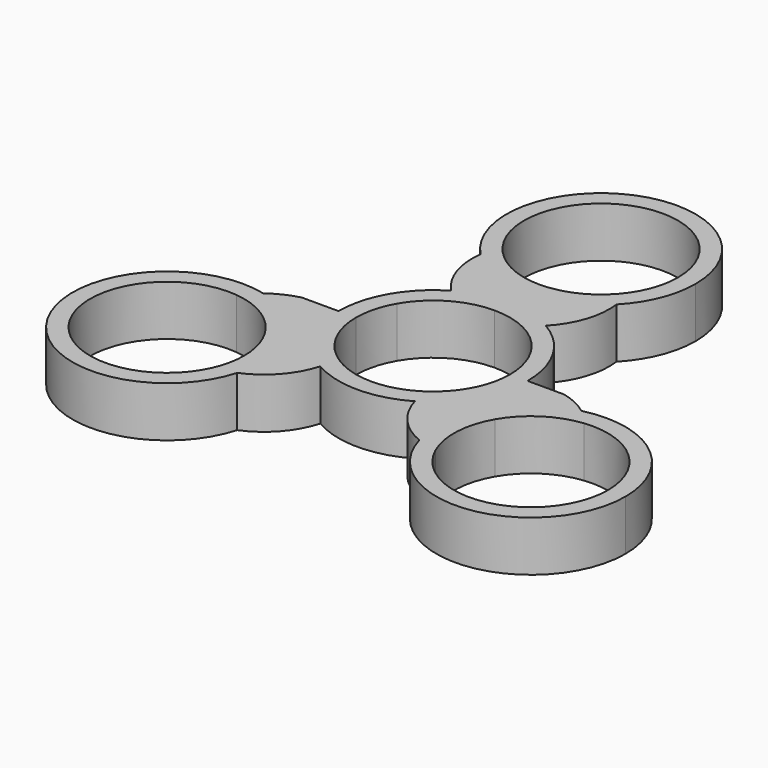
from build123d import *

# Parameters (mm, degrees)
F1_DEPTH = 7.2


with BuildPart() as f1:
    # F0 (on Top) → F1 (new body)
    with BuildSketch(Plane.XY):
        with BuildLine():
            ThreePointArc((-22.7073595632, -1.902869179), (-37.6721050646, -21.75), (-13.0016128307, -18.7137156451))
            ThreePointArc((-13.0016128307, -18.7137156451), (-14.4400957969, -19.1971358452), (-15.9320338179, -19.4747133584))
            ThreePointArc((-15.9320338179, -19.4747133584), (-35.5070415552, -20.5), (-24.8316134088, -4.060189341))
            ThreePointArc((-24.8316134088, -4.060189341), (-23.8452552203, -2.9069218706), (-22.7073595632, -1.902869179))
        make_face()
        with BuildLine():
            ThreePointArc((-6.75, -11.6913429511), (-9.545941546, -9.545941546), (-11.6913429511, -6.75))
            Line((-11.6913429511, -6.75), (-14.2894191624, -8.25))
            ThreePointArc((-14.2894191624, -8.25), (-12.9407634586, -11.5059428911), (-12.4807621135, -15))
            ThreePointArc((-12.4807621135, -15), (-12.6116088995, -16.8750312906), (-13.0016128307, -18.7137156451))
            ThreePointArc((-13.0016128307, -18.7137156451), (-9.0739087263, -15.9164124969), (-6.75, -11.6913429511))
        make_face()
        with BuildLine():
            Line((-14.2894191624, -8.25), (-11.6913429511, -6.75))
            ThreePointArc((-11.6913429511, -6.75), (-13.0399986549, -3.4940571089), (-13.5, 0))
            Line((-13.5, 0), (-18.7587036207, 0))
            ThreePointArc((-18.7587036207, 0), (-20.8303192969, -0.7495522538), (-22.7073595632, -1.902869179))
            ThreePointArc((-22.7073595632, -1.902869179), (-17.8531905577, -4.2207337632), (-14.2894191624, -8.25))
        make_face()
        with BuildLine():
            Line((-16.4544826719, -9.5), (-14.2894191624, -8.25))
            ThreePointArc((-14.2894191624, -8.25), (-17.8531905577, -4.2207337632), (-22.7073595632, -1.902869179))
            ThreePointArc((-22.7073595632, -1.902869179), (-23.8452552203, -2.9069218706), (-24.8316134088, -4.060189341))
            ThreePointArc((-24.8316134088, -4.060189341), (-19.9900128675, -5.7744418342), (-16.4544826719, -9.5))
        make_face()
        with BuildLine():
            ThreePointArc((-12.4807621135, -15), (-12.9407634586, -11.5059428911), (-14.2894191624, -8.25))
            Line((-14.2894191624, -8.25), (-16.4544826719, -9.5))
            ThreePointArc((-16.4544826719, -9.5), (-15.3555780244, -12.1529905039), (-14.9807621135, -15))
            ThreePointArc((-14.9807621135, -15), (-15.221207958, -17.2873553231), (-15.9320338179, -19.4747133584))
            ThreePointArc((-15.9320338179, -19.4747133584), (-14.4400957969, -19.1971358452), (-13.0016128307, -18.7137156451))
            ThreePointArc((-13.0016128307, -18.7137156451), (-12.6116088995, -16.8750312906), (-12.4807621135, -15))
        make_face()
        with BuildLine():
            Line((16.4544826719, -9.5), (14.2894191624, -8.25))
            ThreePointArc((14.2894191624, -8.25), (12.5818579404, -13.35094968), (13.0016128307, -18.7137156451))
            ThreePointArc((13.0016128307, -18.7137156451), (14.4400957969, -19.1971358452), (15.9320338179, -19.4747133584))
            ThreePointArc((15.9320338179, -19.4747133584), (14.9958197548, -14.4246380482), (16.4544826719, -9.5))
        make_face()
        with BuildLine():
            Line((14.2894191624, -8.25), (11.6913429511, -6.75))
            ThreePointArc((11.6913429511, -6.75), (9.545941546, -9.545941546), (6.75, -11.6913429511))
            ThreePointArc((6.75, -11.6913429511), (9.0739087263, -15.9164124969), (13.0016128307, -18.7137156451))
            ThreePointArc((13.0016128307, -18.7137156451), (12.5818579404, -13.35094968), (14.2894191624, -8.25))
        make_face()
        with BuildLine():
            Line((18.7587036207, 0), (13.5, 0))
            ThreePointArc((13.5, 0), (13.0399986549, -3.4940571089), (11.6913429511, -6.75))
            Line((11.6913429511, -6.75), (14.2894191624, -8.25))
            ThreePointArc((14.2894191624, -8.25), (17.8531905577, -4.2207337632), (22.7073595632, -1.902869179))
            ThreePointArc((22.7073595632, -1.902869179), (20.8303192969, -0.7495522538), (18.7587036207, 0))
        make_face()
        with BuildLine():
            ThreePointArc((39.4807621135, -15), (34.2891634511, -4.3594893349), (22.7073595632, -1.902869179))
            ThreePointArc((22.7073595632, -1.902869179), (23.8452552203, -2.9069218706), (24.8316134088, -4.060189341))
            ThreePointArc((24.8316134088, -4.060189341), (33.3414470086, -6.8256304294), (36.9807621135, -15))
            ThreePointArc((36.9807621135, -15), (28.2681174366, -25.7595541555), (15.9320338179, -19.4747133584))
            ThreePointArc((15.9320338179, -19.4747133584), (14.4400957969, -19.1971358452), (13.0016128307, -18.7137156451))
            ThreePointArc((13.0016128307, -18.7137156451), (27.8557934041, -28.369153214), (39.4807621135, -15))
        make_face()
        with BuildLine():
            ThreePointArc((22.7073595632, -1.902869179), (17.8531905577, -4.2207337632), (14.2894191624, -8.25))
            Line((14.2894191624, -8.25), (16.4544826719, -9.5))
            ThreePointArc((16.4544826719, -9.5), (19.9900128675, -5.7744418342), (24.8316134088, -4.060189341))
            ThreePointArc((24.8316134088, -4.060189341), (23.8452552203, -2.9069218706), (22.7073595632, -1.902869179))
        make_face()
        with BuildLine():
            ThreePointArc((0, 11), (5.5, 9.5262794416), (9.5262794416, 5.5))
            Line((9.5262794416, 5.5), (11.6913429511, 6.75))
            ThreePointArc((11.6913429511, 6.75), (9.545941546, 9.545941546), (6.75, 11.6913429511))
            ThreePointArc((6.75, 11.6913429511), (3.4940571089, 13.0399986549), (0, 13.5))
            Line((0, 13.5), (0, 11))
        make_face()
        with BuildLine():
            ThreePointArc((9.5262794416, 5.5), (10.6251840892, 2.8470094961), (11, 0))
            Line((11, 0), (13.5, 0))
            ThreePointArc((13.5, 0), (13.0399986549, 3.4940571089), (11.6913429511, 6.75))
            Line((11.6913429511, 6.75), (9.5262794416, 5.5))
        make_face()
        with BuildLine():
            Line((13.5, 0), (11, 0))
            ThreePointArc((11, 0), (10.6251840892, -2.8470094961), (9.5262794416, -5.5))
            Line((9.5262794416, -5.5), (11.6913429511, -6.75))
            ThreePointArc((11.6913429511, -6.75), (13.0399986549, -3.4940571089), (13.5, 0))
        make_face()
        with BuildLine():
            Line((11.6913429511, -6.75), (9.5262794416, -5.5))
            ThreePointArc((9.5262794416, -5.5), (5.5, -9.5262794416), (0, -11))
            Line((0, -11), (0, -13.5))
            ThreePointArc((0, -13.5), (3.4940571089, -13.0399986549), (6.75, -11.6913429511))
            ThreePointArc((6.75, -11.6913429511), (9.545941546, -9.545941546), (11.6913429511, -6.75))
        make_face()
        with BuildLine():
            Line((0, -13.5), (0, -11))
            ThreePointArc((0, -11), (-5.5, -9.5262794416), (-9.5262794416, -5.5))
            Line((-9.5262794416, -5.5), (-11.6913429511, -6.75))
            ThreePointArc((-11.6913429511, -6.75), (-9.545941546, -9.545941546), (-6.75, -11.6913429511))
            ThreePointArc((-6.75, -11.6913429511), (-3.4940571089, -13.0399986549), (0, -13.5))
        make_face()
        with BuildLine():
            Line((-11.6913429511, -6.75), (-9.5262794416, -5.5))
            ThreePointArc((-9.5262794416, -5.5), (-10.6251840892, -2.8470094961), (-11, 0))
            Line((-11, 0), (-13.5, 0))
            ThreePointArc((-13.5, 0), (-13.0399986549, -3.4940571089), (-11.6913429511, -6.75))
        make_face()
        with BuildLine():
            Line((-13.5, 0), (-11, 0))
            ThreePointArc((-11, 0), (-10.6251840892, 2.8470094961), (-9.5262794416, 5.5))
            Line((-9.5262794416, 5.5), (-11.6913429511, 6.75))
            ThreePointArc((-11.6913429511, 6.75), (-13.0399986549, 3.4940571089), (-13.5, 0))
        make_face()
        with BuildLine():
            ThreePointArc((-9.5262794416, 5.5), (-5.5, 9.5262794416), (0, 11))
            Line((0, 11), (0, 13.5))
            ThreePointArc((0, 13.5), (-3.4940571089, 13.0399986549), (-6.75, 11.6913429511))
            ThreePointArc((-6.75, 11.6913429511), (-9.545941546, 9.545941546), (-11.6913429511, 6.75))
            Line((-11.6913429511, 6.75), (-9.5262794416, 5.5))
        make_face()
        with BuildLine():
            ThreePointArc((-6.75, 11.6913429511), (-3.4940571089, 13.0399986549), (0, 13.5))
            Line((0, 13.5), (0, 16.5))
            ThreePointArc((0, 16.5), (-5.2713326173, 17.5716834431), (-9.7057467326, 20.6165848241))
            ThreePointArc((-9.7057467326, 20.6165848241), (-9.2470631962, 15.816441717), (-6.75, 11.6913429511))
        make_face()
        with BuildLine():
            Line((0, 16.5), (0, 13.5))
            ThreePointArc((0, 13.5), (3.4940571089, 13.0399986549), (6.75, 11.6913429511))
            ThreePointArc((6.75, 11.6913429511), (9.2470631962, 15.816441717), (9.7057467326, 20.6165848241))
            ThreePointArc((9.7057467326, 20.6165848241), (5.2713326173, 17.5716834431), (0, 16.5))
        make_face()
        with BuildLine():
            Line((0, 19), (0, 16.5))
            ThreePointArc((0, 16.5), (5.2713326173, 17.5716834431), (9.7057467326, 20.6165848241))
            ThreePointArc((9.7057467326, 20.6165848241), (9.4051594234, 22.1040577159), (8.8995795909, 23.5349026995))
            ThreePointArc((8.8995795909, 23.5349026995), (4.9941931127, 20.1990798823), (0, 19))
        make_face()
        with BuildLine():
            ThreePointArc((-9.7057467326, 20.6165848241), (-5.2713326173, 17.5716834431), (0, 16.5))
            Line((0, 16.5), (0, 19))
            ThreePointArc((0, 19), (-4.9941931127, 20.1990798823), (-8.8995795909, 23.5349026995))
            ThreePointArc((-8.8995795909, 23.5349026995), (-9.4051594234, 22.1040577159), (-9.7057467326, 20.6165848241))
        make_face()
        with BuildLine():
            ThreePointArc((8.8995795909, 23.5349026995), (9.4051594234, 22.1040577159), (9.7057467326, 20.6165848241))
            ThreePointArc((9.7057467326, 20.6165848241), (12.5155419557, 24.9392481235), (13.5, 30))
            ThreePointArc((13.5, 30), (-5.0607518765, 42.5155419557), (-9.7057467326, 20.6165848241))
            ThreePointArc((-9.7057467326, 20.6165848241), (-9.4051594234, 22.1040577159), (-8.8995795909, 23.5349026995))
            ThreePointArc((-8.8995795909, 23.5349026995), (-3.3988692605, 40.4617248936), (11, 30))
            ThreePointArc((11, 30), (10.4617248936, 26.6011307395), (8.8995795909, 23.5349026995))
        make_face()
    extrude(amount=F1_DEPTH)


solid = f1.part
